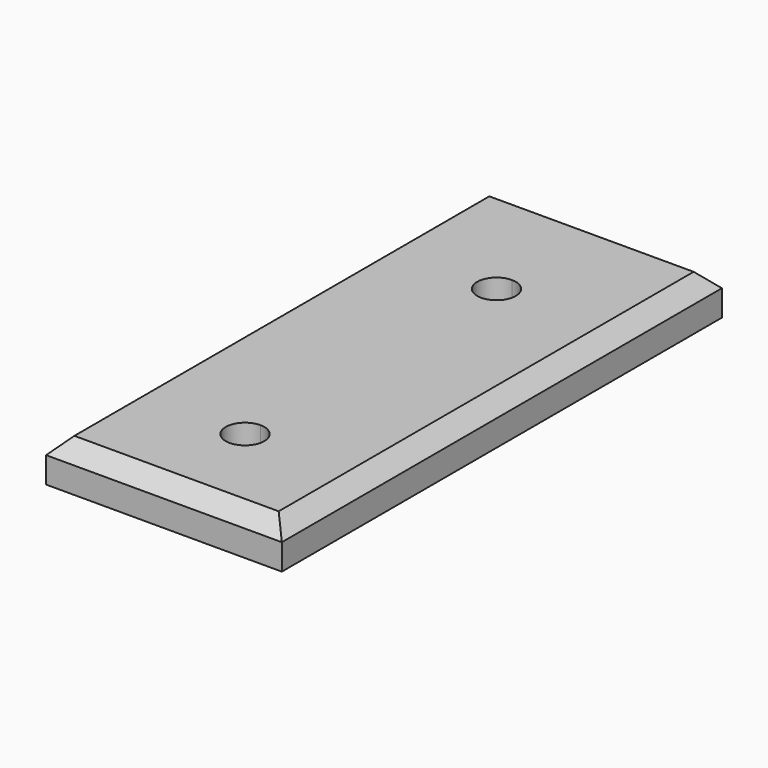
from build123d import *

# Parameters (mm, degrees)
F1_DEPTH = 13.462
F2_SIZE  = 5.08


with BuildPart() as f1:
    # F0 (on Top) → F1 (new body)
    with BuildSketch(Plane.XY):
        with BuildLine():
            Line((38.1, 88.9), (0, 88.9))
            Line((0, 88.9), (0, 51.677876))
            ThreePointArc((0, 51.677876), (4.400325, 49.855201), (6.223, 45.454876))
            ThreePointArc((6.223, 45.454876), (4.400325, 41.05455), (0, 39.231876))
            Line((0, 39.231876), (0, -49.922124))
            ThreePointArc((0, -49.922124), (4.400325, -51.744799), (6.223, -56.145124))
            ThreePointArc((6.223, -56.145124), (4.400325, -60.54545), (0, -62.368124))
            Line((0, -62.368124), (0, -88.9))
            Line((0, -88.9), (38.1, -88.9))
            Line((38.1, -88.9), (38.1, 88.9))
        make_face()
        with BuildLine():
            Line((0, 88.9), (-38.1, 88.9))
            Line((-38.1, 88.9), (-38.1, -88.9))
            Line((-38.1, -88.9), (0, -88.9))
            Line((0, -88.9), (0, -62.368124))
            ThreePointArc((0, -62.368124), (-6.223, -56.145124), (0, -49.922124))
            Line((0, -49.922124), (0, 39.231876))
            ThreePointArc((0, 39.231876), (-6.223, 45.454876), (0, 51.677876))
            Line((0, 51.677876), (0, 88.9))
        make_face()
    extrude(amount=F1_DEPTH)

    # F2
    f2_edges = [f1.edges().sort_by_distance(p)[0] for p in [
        (-38.1, 0, 13.462),
        (38.1, 0, 13.462),
        (0, 88.9, 13.462),
        (0, -88.9, 13.462),
    ]]
    chamfer(f2_edges, length=F2_SIZE)


solid = f1.part
